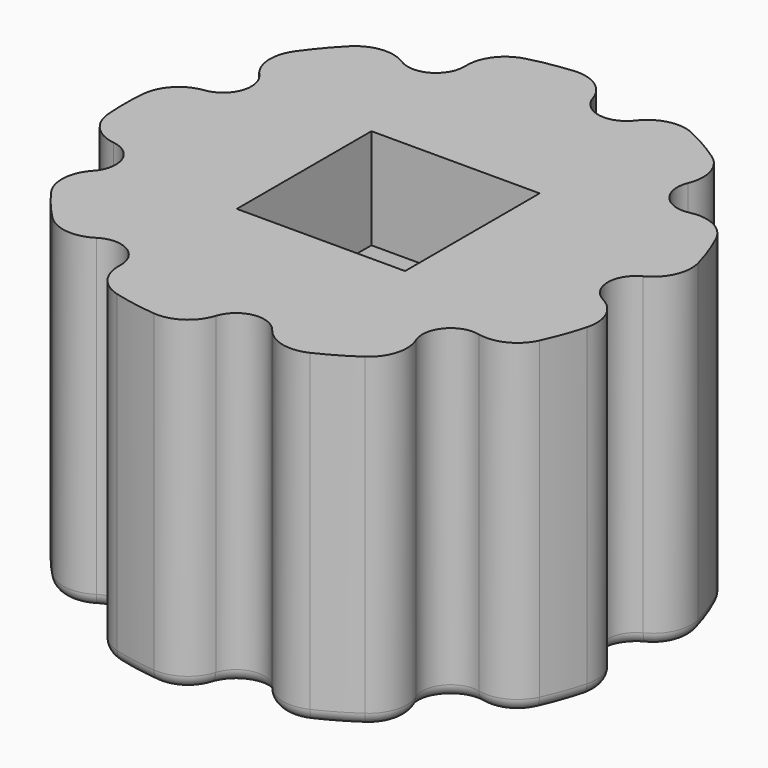
from build123d import *

# Parameters (mm, degrees)
SKETCH_R           = 10.5
SKETCH_W           = 6.7
SKETCH_H           = 6.7
PAD_DEPTH          = 13
POCKET001_DEPTH    = 77.83926
POLARPATTERN_COUNT = 9
SKETCH003_R        = 7.6
POCKET_DEPTH       = 9
FILLET_R           = 0.5


with BuildPart() as part:
    # Sketch → Pad (new body)
    with BuildSketch(Plane.XY):
        Circle(SKETCH_R)
        Rectangle(SKETCH_W, SKETCH_H, mode=Mode.SUBTRACT)
    extrude(amount=PAD_DEPTH)

    # Sketch002 → Pocket001 (cut, through all)
    with BuildSketch(Plane.XY):
        with BuildLine():
            ThreePointArc((10.12895, -2.766653), (13.291424, 0), (10.12895, 2.766653))
            ThreePointArc((9.352786, 1.000507), (10.053591, 1.746148), (10.12895, 2.766653))
            ThreePointArc((9.352786, 1.000507), (8.74297, 0), (9.352786, -1.000507))
            ThreePointArc((10.12895, -2.766653), (10.053591, -1.746148), (9.352786, -1.000507))
        make_face()
    pocket001 = extrude(amount=POCKET001_DEPTH, mode=Mode.SUBTRACT)

    # PolarPattern: Pocket001 ×9 about axis
    polarpattern_axis = Axis((0, 0, 0), (0, 0, 1))
    for i in range(1, POLARPATTERN_COUNT):
        add(pocket001.rotate(polarpattern_axis, i * 360 / POLARPATTERN_COUNT), mode=Mode.SUBTRACT)

    # Sketch003 → Pocket (cut)
    with BuildSketch(Plane.XY):
        Circle(SKETCH003_R)
    extrude(amount=POCKET_DEPTH, mode=Mode.SUBTRACT)

    # Fillet
    fillet_edges = [part.edges().sort_by_distance(p)[0] for p in [
        (8.74297, 0, 0),
        (10.053591, 1.746148, 0),
        (10.053591, -1.746148, 0),
        (9.866773, 3.591212, 0),
        (9.866773, -3.591212, 0),
        (8.8239, 5.124697, 0),
        (8.8239, -5.124697, 0),
        (6.697503, 5.619873, 0),
        (6.697503, -5.619873, 0),
        (6.579095, 7.799951, 0),
        (6.579095, -7.799951, 0),
        (5.25, 9.093267, 0),
        (5.25, -9.093267, 0),
        (3.465408, 9.597639, 0),
        (3.465408, -9.597639, 0),
        (1.518201, 8.610144, 0),
        (1.518201, -8.610144, 0),
        (0.026168, 10.20407, 0),
        (0.026168, -10.20407, 0),
        (-1.823306, 10.340481, 0),
        (-1.823306, -10.340481, 0),
        (-3.514587, 9.57974, 0),
        (-3.514587, -9.57974, 0),
        (-4.371485, 7.571634, 0),
        (-4.371485, -7.571634, 0),
        (-6.539004, 7.833591, 0),
        (-6.539004, -7.833591, 0),
        (-8.043467, 6.74927, 0),
        (-8.043467, -6.74927, 0),
        (-8.850068, 5.079373, 0),
        (-8.850068, -5.079373, 0),
        (-8.215704, 2.990272, 0),
        (-8.215704, -2.990272, 0),
        (-10.044503, 1.797688, 0),
        (-10.044503, -1.797688, 0),
        (-10.5, 0, 0),
        (-7.6, 0, 0),
    ]]
    fillet(fillet_edges, radius=FILLET_R)


solid = part.part
